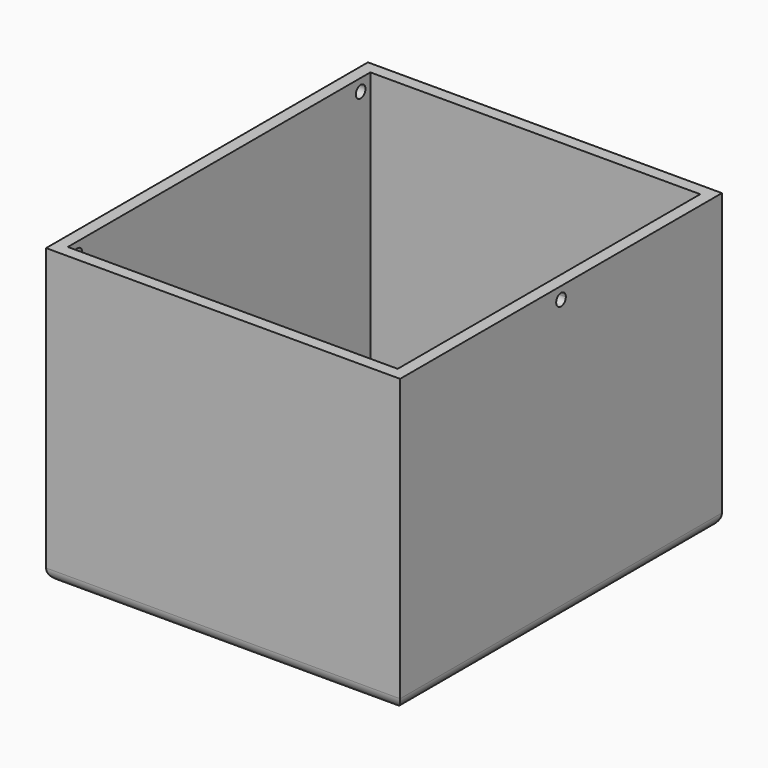
from build123d import *

# Parameters (mm, degrees)
F0_W     = 88
F0_H     = 100
F2_DEPTH = 3
F1_W     = 88
F1_H     = 100
F1_W_2   = 82
F1_H_2   = 94
F3_DEPTH = 70
F4_R     = 3
F5_R     = 1.5
F6_DEPTH = 25
F8_DEPTH = 25


with BuildPart() as f2:
    # F0 (on Top) → F2 (new body)
    with BuildSketch(Plane.XY):
        with Locations((8.683464, 2.622797)):
            Rectangle(F0_W, F0_H)
    extrude(amount=-F2_DEPTH)

    # F1 (on face) → F3 (join)
    with BuildSketch(Plane.XY):
        with Locations((8.683464, 2.622797)):
            Rectangle(F1_W, F1_H)
        with Locations((8.683464, 2.622797)):
            Rectangle(F1_W_2, F1_H_2, mode=Mode.SUBTRACT)
    extrude(amount=F3_DEPTH)

    # F4
    f4_edges = [f2.edges().sort_by_distance(p)[0] for p in [
        (-35.316536, 2.622797, -3),
        (8.683464, 52.622797, -3),
        (8.683464, -47.377203, -3),
        (52.683464, 2.622797, -3),
    ]]
    fillet(f4_edges, radius=F4_R)

    # F5 (on face) → F6 (cut)
    with BuildSketch(Plane(origin=(-35.316536, 0, 0), x_dir=(0, -1, 0), z_dir=(-1, 0, 0))):
        with Locations((-46.622797, 67)):
            Circle(F5_R)
        with Locations((41.377203, 67)):
            Circle(F5_R)
    extrude(amount=-F6_DEPTH, mode=Mode.SUBTRACT)

    # F7 (on face) → F8 (cut)
    with BuildSketch(Plane.YZ.offset(52.683464)):
        with BuildLine():
            ThreePointArc((2.622797, 68.5), (1.562137, 65.93934), (4.122797, 67))
            ThreePointArc((4.122797, 67), (3.683457, 68.06066), (2.622797, 68.5))
        make_face()
    extrude(amount=-F8_DEPTH, mode=Mode.SUBTRACT)


solid = f2.part
